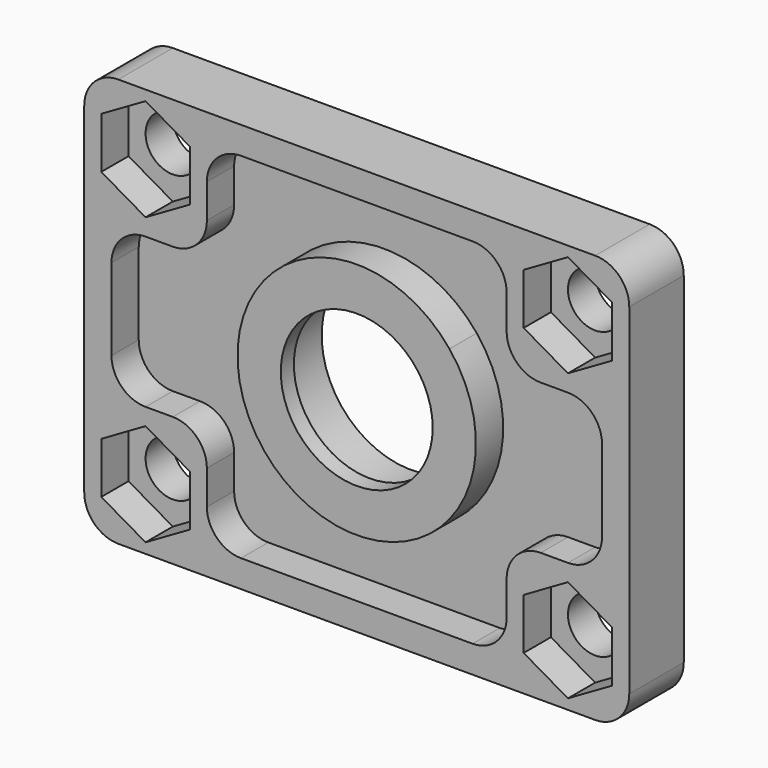
from build123d import *

# Parameters (mm, degrees)
F0_W      = 80
F0_H      = 60
F1_DEPTH  = 10
F2_R      = 13.15
F3_DEPTH  = 10.001
F4_R      = 4
F5_DEPTH  = 10.001
F6_R      = 5
F7_W      = 14
F7_H      = 22
F8_DEPTH  = 5
F9_R      = 5
F10_R     = 13.15
F10_R_2   = 11.15
F11_DEPTH = 2.4


with BuildPart() as f1:
    # F0 (on Front) → F1 (new body)
    with BuildSketch(Plane.XZ):
        with Locations((0, 10)):
            Rectangle(F0_W, F0_H)
    extrude(amount=F1_DEPTH)

    # F2 (on face) → F3 (cut, through all)
    with BuildSketch(Plane.XZ.offset(10)):
        with Locations((0, 10)):
            Circle(F2_R)
    extrude(amount=-F3_DEPTH, mode=Mode.SUBTRACT)

    # F4 (on face) → F5 (cut, through all)
    with BuildSketch(Plane.XZ.offset(10)):
        with Locations((-31, 31)):
            Circle(F4_R)
        with Locations((31, 31)):
            Circle(F4_R)
        with Locations((-31, -11)):
            Circle(F4_R)
        with Locations((31, -11)):
            Circle(F4_R)
    extrude(amount=-F5_DEPTH, mode=Mode.SUBTRACT)

    # F6
    f6_edges = [f1.edges().sort_by_distance(p)[0] for p in [
        (40, -5, 40),
        (40, -5, -20),
        (-40, -5, -20),
        (-40, -5, 40),
    ]]
    fillet(f6_edges, radius=F6_R)

    # F7 (on face) → F8 (cut)
    with BuildSketch(Plane.XZ.offset(10)):
        Polygon((-24.5, 34.7527767497), (-31, 38.5055534995), (-37.5, 34.7527767497), (-37.5, 27.2472232503), (-31, 23.4944465005), (-24.5, 27.2472232503), align=None)
        Polygon((24.5, 34.7527767497), (24.5, 27.2472232503), (31, 23.4944465005), (37.5, 27.2472232503), (37.5, 34.7527767497), (31, 38.5055534995), align=None)
        Polygon((24.5, -7.2472232503), (24.5, -14.7527767497), (31, -18.5055534995), (37.5, -14.7527767497), (37.5, -7.2472232503), (31, -3.4944465005), align=None)
        Polygon((-24.5, -7.2472232503), (-31, -3.4944465005), (-37.5, -7.2472232503), (-37.5, -14.7527767497), (-31, -18.5055534995), (-24.5, -14.7527767497), align=None)
        with BuildLine():
            ThreePointArc((13.6106575888, 21), (16.499037969, 15.8336734651), (17.5, 10))
            ThreePointArc((17.5, 10), (16.499037969, 4.1663265349), (13.6106575888, -1))
            Line((13.6106575888, -1), (22, -1))
            Line((22, -1), (22, 21))
            Line((22, 21), (13.6106575888, 21))
        make_face()
        with BuildLine():
            ThreePointArc((-13.6106575888, 21), (0, 27.5), (13.6106575888, 21))
            Line((13.6106575888, 21), (22, 21))
            Line((22, 21), (22, 36))
            Line((22, 36), (-22, 36))
            Line((-22, 36), (-22, 21))
            Line((-22, 21), (-13.6106575888, 21))
        make_face()
        with BuildLine():
            Line((22, -1), (13.6106575888, -1))
            ThreePointArc((13.6106575888, -1), (0, -7.5), (-13.6106575888, -1))
            Line((-13.6106575888, -1), (-22, -1))
            Line((-22, -1), (-22, -16))
            Line((-22, -16), (22, -16))
            Line((22, -16), (22, -1))
        make_face()
        with BuildLine():
            ThreePointArc((-13.6106575888, -1), (-17.5, 10), (-13.6106575888, 21))
            Line((-13.6106575888, 21), (-22, 21))
            Line((-22, 21), (-22, -1))
            Line((-22, -1), (-13.6106575888, -1))
        make_face()
        with Locations((29, 10)):
            Rectangle(F7_W, F7_H)
        with Locations((-29, 10)):
            Rectangle(F7_W, F7_H)
    extrude(amount=-F8_DEPTH, mode=Mode.SUBTRACT)

    # F9
    f9_edges = [f1.edges().sort_by_distance(p)[0] for p in [
        (-22, -7.5, 21),
        (-36, -7.5, 21),
        (-22, -7.5, 36),
        (22, -7.5, 36),
        (22, -7.5, 21),
        (36, -7.5, 21),
        (-36, -7.5, -1),
        (-22, -7.5, -1),
        (-22, -7.5, -16),
        (36, -7.5, -1),
        (22, -7.5, -1),
        (22, -7.5, -16),
    ]]
    fillet(f9_edges, radius=F9_R)

    # F10 (on face) → F11 (join)
    with BuildSketch(Plane.XZ.offset(10)):
        with Locations((0, 10)):
            Circle(F10_R)
        with Locations((0, 10)):
            Circle(F10_R_2, mode=Mode.SUBTRACT)
    extrude(amount=-F11_DEPTH)


solid = f1.part
